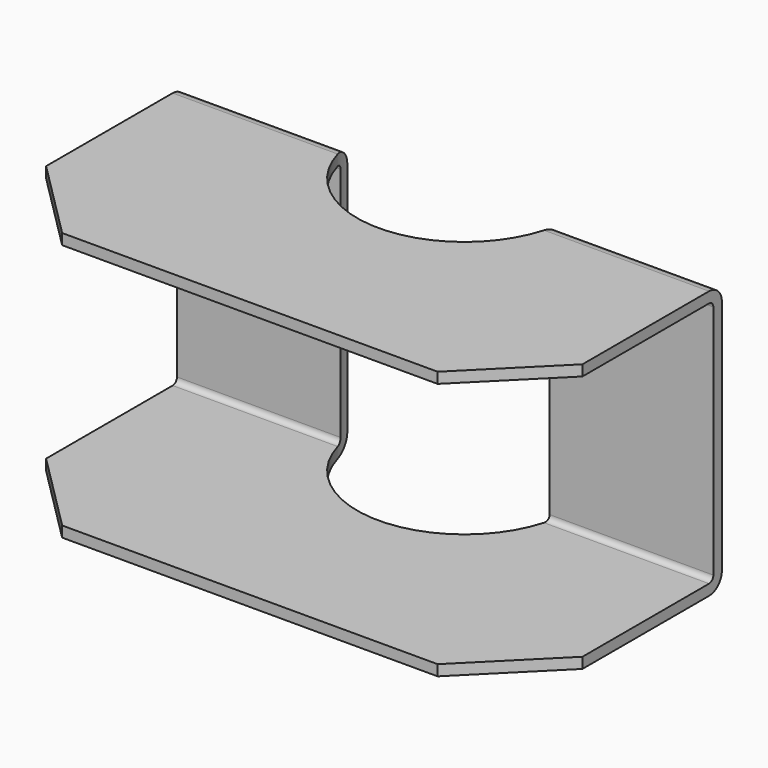
from build123d import *

# Parameters (mm, degrees)
F1_DEPTH      = 100
F1_DEPTH_BACK = 100
F2_R          = 40
F3_DEPTH      = 100
F3_DEPTH_BACK = 100
F4_SIZE       = 30


with BuildPart() as f1:
    # F0 (on Right) → F1 (new body, two sides)
    with BuildSketch(Plane.YZ) as f1_sk:
        with BuildLine():
            Line((-5, 0), (-5, 44))
            ThreePointArc((-5, 44), (-6.757359, 48.242641), (-11, 50))
            Line((-11, 50), (-100, 50))
            Line((-100, 50), (-100, 46))
            Line((-100, 46), (-11, 46))
            ThreePointArc((-11, 46), (-9.585786, 45.414214), (-9, 44))
            Line((-9, 44), (-9, 0))
            Line((-9, 0), (-9, -44))
            ThreePointArc((-9, -44), (-9.585786, -45.414214), (-11, -46))
            Line((-11, -46), (-100, -46))
            Line((-100, -46), (-100, -50))
            Line((-100, -50), (-11, -50))
            ThreePointArc((-11, -50), (-6.757359, -48.242641), (-5, -44))
            Line((-5, -44), (-5, 0))
        make_face()
    extrude(amount=F1_DEPTH)
    extrude(f1_sk.sketch, amount=-F1_DEPTH_BACK)

    # F2 (on Top) → F3 (cut, two sides)
    with BuildSketch(Plane.XY) as f3_sk:
        Circle(F2_R)
    extrude(amount=F3_DEPTH, mode=Mode.SUBTRACT)
    extrude(f3_sk.sketch, amount=-F3_DEPTH_BACK, mode=Mode.SUBTRACT)

    # F4
    f4_edges = [f1.edges().sort_by_distance(p)[0] for p in [
        (100, -100, -48),
        (100, -100, 48),
        (-100, -100, -48),
        (-100, -100, 48),
    ]]
    chamfer(f4_edges, length=F4_SIZE)


solid = f1.part
